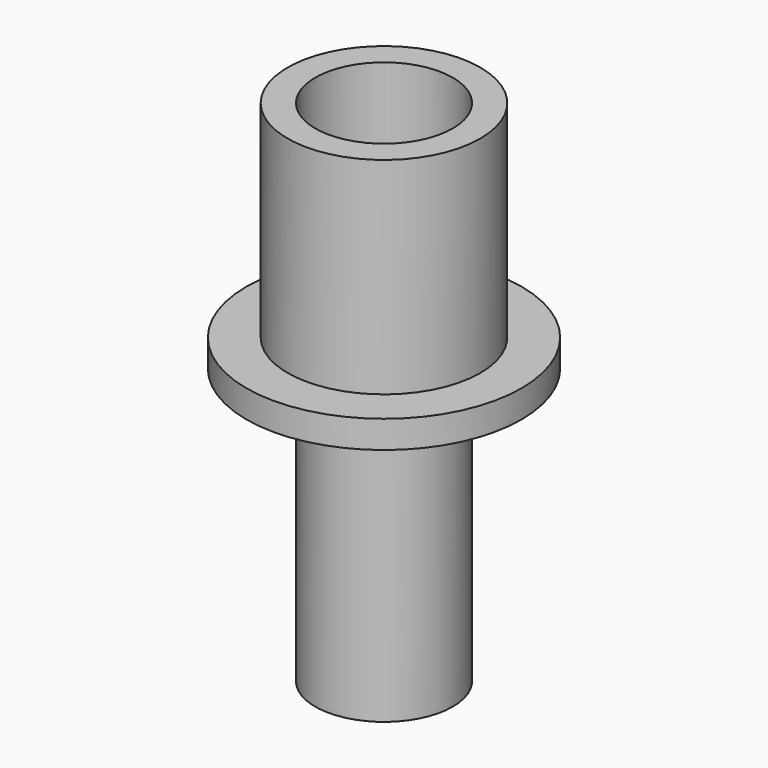
from build123d import *

# Parameters (mm, degrees)
F2_R     = 5
F3_DEPTH = 15
F4_R     = 3
F5_DEPTH = 20
F6_R     = 2.9
F7_DEPTH = 20


with BuildPart() as f1:
    # F0 (on Front) → F1 (revolve)
    with BuildSketch(Plane.XZ):
        Polygon((7, 0), (0, 0), (0, -37), (5, -37), (5, -17), (7, -17), (10, -17), (10, -15), (7, -15), align=None)
    revolve(axis=Axis((0, 0, -18.5), (0, 0, 1)))

    # F2 (on face) → F3 (cut, through all)
    with BuildSketch(Plane.XY):
        Circle(F2_R)
    extrude(amount=-F3_DEPTH, mode=Mode.SUBTRACT)

    # F4 (on face) → F5 (cut, through all)
    with BuildSketch(Plane(origin=(0, 0, -37), x_dir=(1, 0, 0), z_dir=(0, 0, -1))):
        Circle(F4_R)
    extrude(amount=-F5_DEPTH, mode=Mode.SUBTRACT)


with BuildPart() as f7:
    # F6 (on face) → F7 (new body)
    with BuildSketch(Plane(origin=(0, 0, -37), x_dir=(1, 0, 0), z_dir=(0, 0, -1))):
        Circle(F6_R)
    extrude(amount=-F7_DEPTH)


solid = f1.part
